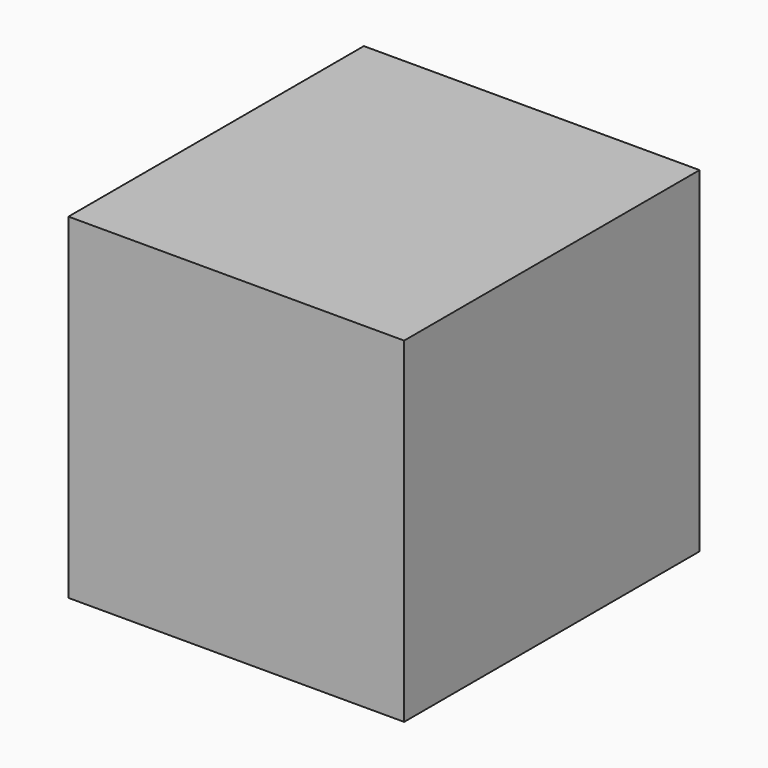
from build123d import *

# Parameters (mm, degrees)
BOX_W     = 10
BOX_H     = 11
BOX_DEPTH = 10


with BuildPart() as part:
    # Box → Box (new body)
    with BuildSketch(Plane.XY):
        with Locations((5, 5.5)):
            Rectangle(BOX_W, BOX_H)
    extrude(amount=BOX_DEPTH)


solid = part.part
